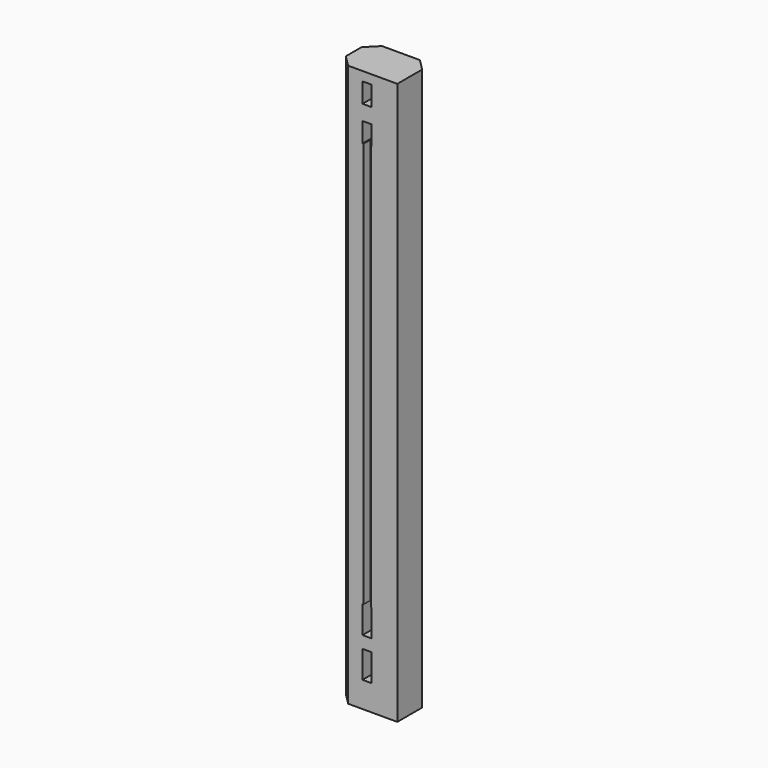
from build123d import *

# Parameters (mm, degrees)
F0_W     = 63.5
F0_H     = 44.45
F1_DEPTH = 588.9625
F3_DEPTH = 25.4
F2_W     = 7.9375
F2_H     = 425.45
F4_DEPTH = 9.525
F6_DEPTH = 9.525
F5_W     = 9.525
F5_H     = 20.7645
F5_H_2   = 28.575
F7_DEPTH = 44.451
F8_SIZE  = 11.90625


with BuildPart() as f1:
    # F0 (on Top) → F1 (new body)
    with BuildSketch(Plane.XY):
        with Locations((31.75, 22.225)):
            Rectangle(F0_W, F0_H)
    extrude(amount=F1_DEPTH)

    # F2 (on face) → F3 (cut)
    with BuildSketch(Plane(origin=(0, 0, 0), x_dir=(0, -1, 0), z_dir=(-1, 0, 0))):
        Polygon((-17.4625, 579.4375), (-26.9875, 579.4375), (-26.9875, 522.2875), (-26.19375, 522.2875), (-18.25625, 522.2875), (-17.4625, 522.2875), align=None)
        Polygon((-18.25625, 96.8375), (-26.19375, 96.8375), (-26.9875, 96.8375), (-26.9875, 26.9875), (-17.4625, 26.9875), (-17.4625, 96.8375), align=None)
    extrude(amount=-F3_DEPTH, mode=Mode.SUBTRACT)

    # F2 (on face) → F4 (cut)
    with BuildSketch(Plane(origin=(0, 0, 0), x_dir=(0, -1, 0), z_dir=(-1, 0, 0))):
        Polygon((-17.4625, 579.4375), (-26.9875, 579.4375), (-26.9875, 522.2875), (-26.19375, 522.2875), (-18.25625, 522.2875), (-17.4625, 522.2875), align=None)
        with Locations((-22.225, 309.5625)):
            Rectangle(F2_W, F2_H)
        Polygon((-18.25625, 96.8375), (-26.19375, 96.8375), (-26.9875, 96.8375), (-26.9875, 26.9875), (-17.4625, 26.9875), (-17.4625, 96.8375), align=None)
    extrude(amount=-F4_DEPTH, mode=Mode.SUBTRACT)

    # F5 (on face) → F6 (cut)
    with BuildSketch(Plane.XZ):
        Polygon((35.822193, 522.0335), (28.781885, 522.0335), (27.884693, 522.0335), (27.884693, 96.8375), (35.822193, 96.8375), align=None)
    extrude(amount=-F6_DEPTH, mode=Mode.SUBTRACT)

    # F5 (on face) → F7 (cut, through all)
    with BuildSketch(Plane.XZ):
        with Locations((31.75, 569.05525)):
            Rectangle(F5_W, F5_H)
        Polygon((27.884693, 522.0335), (28.781885, 522.0335), (35.822193, 522.0335), (36.5125, 522.0335), (36.5125, 542.798), (26.9875, 542.798), (26.9875, 522.0335), align=None)
        Polygon((35.822193, 96.8375), (27.884693, 96.8375), (26.9875, 96.8375), (26.9875, 68.2625), (36.5125, 68.2625), (36.5125, 96.8375), align=None)
        with Locations((31.75, 41.275)):
            Rectangle(F5_W, F5_H_2)
    extrude(amount=-F7_DEPTH, mode=Mode.SUBTRACT)

    # F8
    f8_edges = [f1.edges().sort_by_distance(p)[0] for p in [
        (63.5, 44.45, 294.48125),
        (0, 44.45, 294.48125),
        (0, 0, 294.48125),
    ]]
    chamfer(f8_edges, length=F8_SIZE)


solid = f1.part
